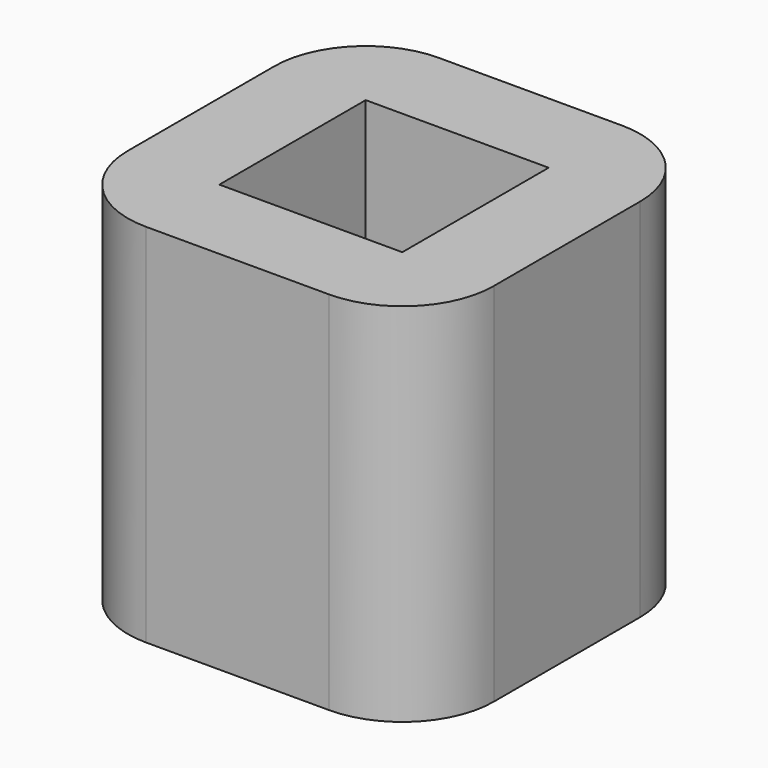
from build123d import *

# Parameters (mm, degrees)
F0_W     = 12.7
F0_H     = 12.7
F1_DEPTH = 12.7


with BuildPart() as f1:
    # F0 (on Top) → F1 (new body, symmetric)
    with BuildSketch(Plane.XY):
        with BuildLine():
            Line((6.35, 12.7), (-6.35, 12.7))
            ThreePointArc((-6.35, 12.7), (-10.840128, 10.840128), (-12.7, 6.35))
            Line((-12.7, 6.35), (-12.7, -6.35))
            ThreePointArc((-12.7, -6.35), (-10.840128, -10.840128), (-6.35, -12.7))
            Line((-6.35, -12.7), (6.35, -12.7))
            ThreePointArc((6.35, -12.7), (10.840128, -10.840128), (12.7, -6.35))
            Line((12.7, -6.35), (12.7, 6.35))
            ThreePointArc((12.7, 6.35), (10.840128, 10.840128), (6.35, 12.7))
        make_face()
        Rectangle(F0_W, F0_H, mode=Mode.SUBTRACT)
    extrude(amount=F1_DEPTH, both=True)


solid = f1.part
